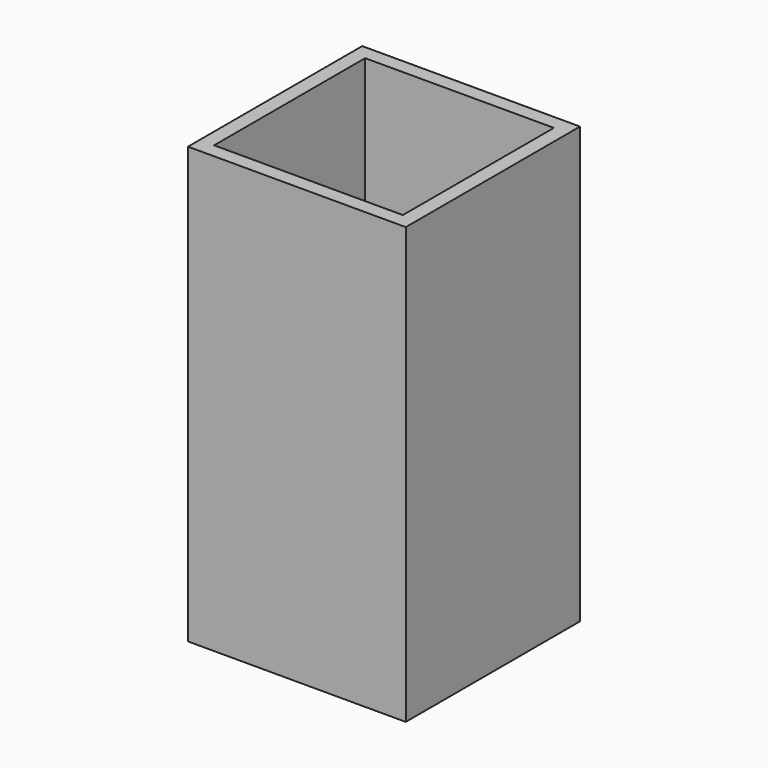
from build123d import *

# Parameters (mm, degrees)
F0_W     = 30
F0_H     = 30
F0_W_2   = 26
F0_H_2   = 26
F1_DEPTH = 60
F3_DEPTH = 3
F0_W_3   = 22.6
F0_H_3   = 22.6
F4_DEPTH = 2


with BuildPart() as f1:
    # F0 (on Top) → F1 (new body)
    with BuildSketch(Plane.XY):
        Rectangle(F0_W, F0_H)
        Rectangle(F0_W_2, F0_H_2, mode=Mode.SUBTRACT)
    extrude(amount=F1_DEPTH)

    # F2 (on face) → F3 (cut)
    with BuildSketch(Plane(origin=(0, 0, 0), x_dir=(1, 0, 0), z_dir=(0, 0, -1))):
        with BuildLine():
            ThreePointArc((-2.5, 0), (0, -2.5), (2.5, 0))
            ThreePointArc((2.5, 0), (0, 2.5), (-2.5, 0))
        make_face()
    extrude(amount=-F3_DEPTH, mode=Mode.SUBTRACT)

    # F0 (on Top) → F4 (join)
    with BuildSketch(Plane.XY):
        Rectangle(F0_W_2, F0_H_2)
        Rectangle(F0_W_3, F0_H_3, mode=Mode.SUBTRACT)
    extrude(amount=F4_DEPTH)


solid = f1.part
